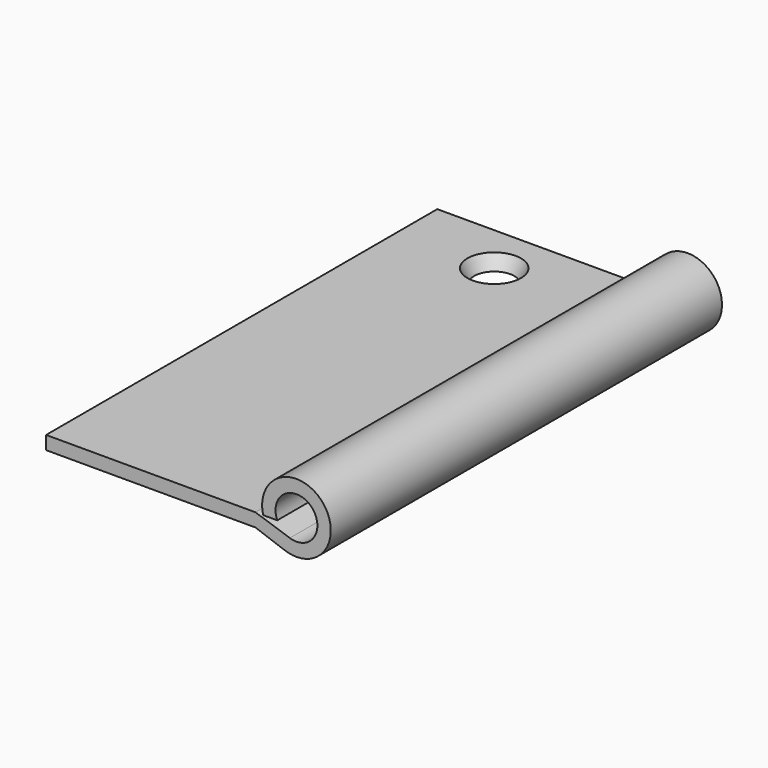
from build123d import *

# Parameters (mm, degrees)
F1_DEPTH = 292
F3_R     = 12
F2_R     = 16


with BuildPart() as f1:
    # F0 (on Front) → F1 (new body)
    with BuildSketch(Plane.XZ):
        with BuildLine():
            Line((20.542224, -6.856897), (0, 0))
            Line((0, 0), (-125, 0))
            Line((-125, 0), (-125, -8))
            Line((-125, -8), (0, -8))
            Line((0, -8), (17.58743, -14.299388))
            ThreePointArc((17.58743, -14.299388), (39.685209, 18.77169), (4.619105, 0))
            Line((4.619105, 0), (13.043561, 0))
            ThreePointArc((13.043561, 0), (32.935269, 14.224762), (20.542224, -6.856897))
        make_face()
    extrude(amount=F1_DEPTH)

    # F3 (on face) → F4 section 0
    with BuildSketch(Plane(origin=(0, 0, -8), x_dir=(1, 0, 0), z_dir=(0, 0, -1))):
        with Locations((-67, 30)):
            Circle(F3_R)
    # F2 (on face) → F4 section 1
    with BuildSketch(Plane.XY):
        with Locations((-67, -30)):
            Circle(F2_R)
    loft(mode=Mode.SUBTRACT)


solid = f1.part
